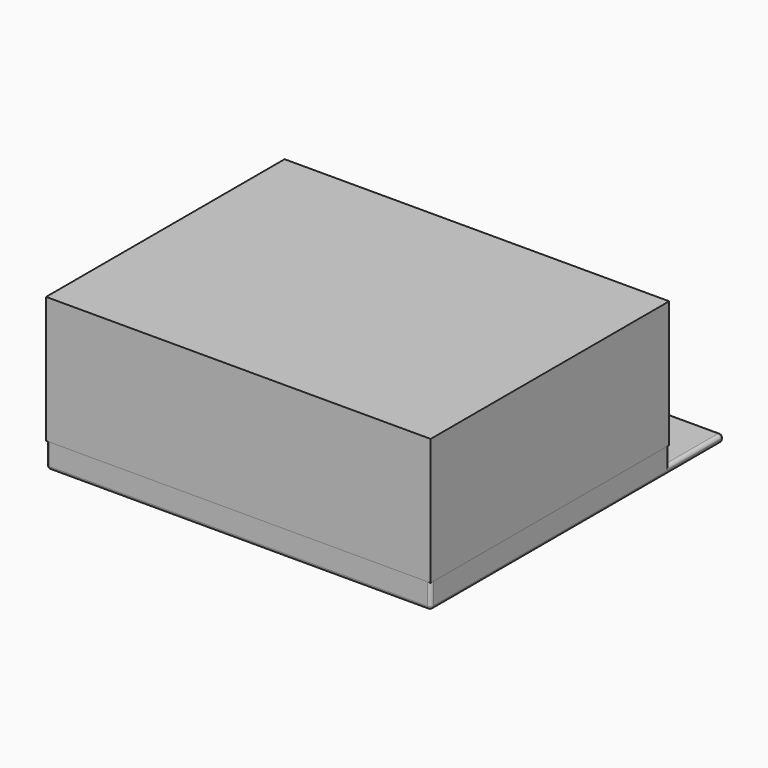
from build123d import *

# Parameters (mm, degrees)
SKETCH_W      = 112.87
SKETCH_H      = 87.5
SKETCH_R      = 3
PAD_DEPTH     = 2.2
SKETCH001_W   = 112.87
SKETCH001_H   = 87.5
SKETCH001_R   = 3
PAD001_DEPTH  = 2.2
SKETCH003_W   = 112.87
SKETCH003_H   = 87.5
SKETCH003_R   = 1.75
PAD002_DEPTH  = 1.2
SKETCH002_W   = 112.87
SKETCH002_H   = 87.5
SKETCH002_W_2 = 110.47
SKETCH002_H_2 = 85.1
PAD003_DEPTH  = 1.7
SKETCH005_W   = 112.87
SKETCH005_H   = 20
SKETCH005_R   = 2.2
PAD005_DEPTH  = 2.2
FILLET_R      = 1
SKETCH004_W   = 112.87
SKETCH004_H   = 87.5
SKETCH004_R   = 1.75
PAD004_DEPTH  = 35
SKETCH006_W   = 112.87
SKETCH006_H   = 87.5
PAD006_DEPTH  = 2.2


with BuildPart() as basebody:
    # Sketch → Pad (new body)
    with BuildSketch(Plane.XY):
        Rectangle(SKETCH_W, SKETCH_H)
        with Locations((-50.925, 38.05)):
            Circle(SKETCH_R, mode=Mode.SUBTRACT)
        with Locations((50.925, 38.05)):
            Circle(SKETCH_R, mode=Mode.SUBTRACT)
        with Locations((50.925, -38.05)):
            Circle(SKETCH_R, mode=Mode.SUBTRACT)
        with Locations((-50.925, -38.05)):
            Circle(SKETCH_R, mode=Mode.SUBTRACT)
    extrude(amount=PAD_DEPTH)

    # Sketch001 → Pad001 (join)
    with BuildSketch(Plane.XY.offset(2.2)):
        Rectangle(SKETCH001_W, SKETCH001_H)
        with Locations((-50.925, 38.05)):
            Circle(SKETCH001_R, mode=Mode.SUBTRACT)
        with Locations((50.925, 38.05)):
            Circle(SKETCH001_R, mode=Mode.SUBTRACT)
        with Locations((50.925, -38.05)):
            Circle(SKETCH001_R, mode=Mode.SUBTRACT)
        with Locations((-50.925, -38.05)):
            Circle(SKETCH001_R, mode=Mode.SUBTRACT)
        with BuildLine():
            Line((55.235, 33.85), (55.235, -33.85))
            Line((50.925, -33.85), (55.235, -33.85))
            ThreePointArc((50.925, -33.85), (47.955152, -35.080152), (46.725, -38.05))
            Line((46.725, -38.05), (46.725, -42.55))
            Line((46.725, -42.55), (-46.725, -42.55))
            Line((-46.725, -38.05), (-46.725, -42.55))
            ThreePointArc((-46.725, -38.05), (-47.955152, -35.080152), (-50.925, -33.85))
            Line((-50.925, -33.85), (-55.235, -33.85))
            Line((-55.235, -33.85), (-55.235, 33.85))
            Line((-55.235, 33.85), (-50.925, 33.85))
            ThreePointArc((-50.925, 33.85), (-47.955152, 35.080152), (-46.725, 38.05))
            Line((-46.725, 42.55), (-46.725, 38.05))
            Line((-46.725, 42.55), (46.725, 42.55))
            Line((46.725, 38.05), (46.725, 42.55))
            ThreePointArc((46.725, 38.05), (47.955152, 35.080152), (50.925, 33.85))
            Line((50.925, 33.85), (55.235, 33.85))
        make_face(mode=Mode.SUBTRACT)
    extrude(amount=PAD001_DEPTH)

    # Sketch003 → Pad002 (join)
    with BuildSketch(Plane.XY.offset(4.4)):
        Rectangle(SKETCH003_W, SKETCH003_H)
        with Locations((-50.925, 38.05)):
            Circle(SKETCH003_R, mode=Mode.SUBTRACT)
        with Locations((50.925, 38.05)):
            Circle(SKETCH003_R, mode=Mode.SUBTRACT)
        with Locations((50.925, -38.05)):
            Circle(SKETCH003_R, mode=Mode.SUBTRACT)
        with Locations((-50.925, -38.05)):
            Circle(SKETCH003_R, mode=Mode.SUBTRACT)
        with BuildLine():
            Line((55.235, 33.85), (55.235, -33.85))
            Line((50.925, -33.85), (55.235, -33.85))
            ThreePointArc((50.925, -33.85), (47.955152, -35.080152), (46.725, -38.05))
            Line((46.725, -38.05), (46.725, -42.55))
            Line((46.725, -42.55), (-46.725, -42.55))
            Line((-46.725, -38.05), (-46.725, -42.55))
            ThreePointArc((-46.725, -38.05), (-47.955152, -35.080152), (-50.925, -33.85))
            Line((-50.925, -33.85), (-55.235, -33.85))
            Line((-55.235, -33.85), (-55.235, 33.85))
            Line((-55.235, 33.85), (-50.925, 33.85))
            ThreePointArc((-50.925, 33.85), (-47.955152, 35.080152), (-46.725, 38.05))
            Line((-46.725, 42.55), (-46.725, 38.05))
            Line((-46.725, 42.55), (46.725, 42.55))
            Line((46.725, 38.05), (46.725, 42.55))
            ThreePointArc((46.725, 38.05), (47.955152, 35.080152), (50.925, 33.85))
            Line((50.925, 33.85), (55.235, 33.85))
        make_face(mode=Mode.SUBTRACT)
    extrude(amount=PAD002_DEPTH)

    # Sketch002 → Pad003 (join)
    with BuildSketch(Plane.XY.offset(5.6)):
        Rectangle(SKETCH002_W, SKETCH002_H)
        Rectangle(SKETCH002_W_2, SKETCH002_H_2, mode=Mode.SUBTRACT)
    extrude(amount=PAD003_DEPTH)

    # Sketch005 → Pad005 (join)
    with BuildSketch(Plane.XY):
        with Locations((0, 53.75)):
            Rectangle(SKETCH005_W, SKETCH005_H)
        with Locations((-41.435, 53.75)):
            Circle(SKETCH005_R, mode=Mode.SUBTRACT)
        with Locations((41.435, 53.75)):
            Circle(SKETCH005_R, mode=Mode.SUBTRACT)
    extrude(amount=PAD005_DEPTH)

    # Fillet
    fillet_edges = [basebody.edges().sort_by_distance(p)[0] for p in [
        (46.725, 40.3, 2.2),
        (0, 42.55, 2.2),
        (-46.725, 40.3, 2.2),
        (-47.955152, 35.080152, 2.2),
        (-53.08, 33.85, 2.2),
        (-55.235, 0, 2.2),
        (-53.08, -33.85, 2.2),
        (-47.955152, -35.080152, 2.2),
        (-46.725, -40.3, 2.2),
        (0, -42.55, 2.2),
        (46.725, -40.3, 2.2),
        (47.955152, -35.080152, 2.2),
        (53.08, -33.85, 2.2),
        (55.235, 0, 2.2),
        (53.08, 33.85, 2.2),
        (47.955152, 35.080152, 2.2),
        (-56.435, 63.75, 1.1),
        (56.435, 63.75, 1.1),
        (0, 63.75, 0),
        (0, 63.75, 2.2),
        (-56.435, 53.75, 2.2),
        (-56.435, 10, 0),
        (-56.435, 43.75, 4.75),
        (56.435, 43.75, 4.75),
        (56.435, 53.75, 2.2),
        (56.435, 10, 0),
        (56.435, -43.75, 3.65),
        (-56.435, -43.75, 3.65),
        (0, -43.75, 0),
    ]]
    fillet(fillet_edges, radius=FILLET_R)


with BuildPart() as basebody_1:
    # Body placement: moved
    add(basebody.part.moved(Location((0, 0, -7.3))))


with BuildPart() as coverbody:
    # Sketch004 → Pad004 (new body)
    with BuildSketch(Plane.XY):
        Rectangle(SKETCH004_W, SKETCH004_H)
        with Locations((-50.925, 38.05)):
            Circle(SKETCH004_R, mode=Mode.SUBTRACT)
        with Locations((50.925, 38.05)):
            Circle(SKETCH004_R, mode=Mode.SUBTRACT)
        with Locations((50.925, -38.05)):
            Circle(SKETCH004_R, mode=Mode.SUBTRACT)
        with Locations((-50.925, -38.05)):
            Circle(SKETCH004_R, mode=Mode.SUBTRACT)
        with BuildLine():
            Line((55.235, 33.85), (55.235, -33.85))
            Line((50.925, -33.85), (55.235, -33.85))
            ThreePointArc((50.925, -33.85), (47.955152, -35.080152), (46.725, -38.05))
            Line((46.725, -38.05), (46.725, -42.55))
            Line((46.725, -42.55), (-46.725, -42.55))
            Line((-46.725, -38.05), (-46.725, -42.55))
            ThreePointArc((-46.725, -38.05), (-47.955152, -35.080152), (-50.925, -33.85))
            Line((-50.925, -33.85), (-55.235, -33.85))
            Line((-55.235, -33.85), (-55.235, 33.85))
            Line((-55.235, 33.85), (-50.925, 33.85))
            ThreePointArc((-50.925, 33.85), (-47.955152, 35.080152), (-46.725, 38.05))
            Line((-46.725, 42.55), (-46.725, 38.05))
            Line((-46.725, 42.55), (46.725, 42.55))
            Line((46.725, 38.05), (46.725, 42.55))
            ThreePointArc((46.725, 38.05), (47.955152, 35.080152), (50.925, 33.85))
            Line((50.925, 33.85), (55.235, 33.85))
        make_face(mode=Mode.SUBTRACT)
    extrude(amount=PAD004_DEPTH)

    # Sketch006 → Pad006 (join)
    with BuildSketch(Plane.XY.offset(35)):
        Rectangle(SKETCH006_W, SKETCH006_H)
    extrude(amount=PAD006_DEPTH)


solid = Compound([basebody_1.part, coverbody.part])
